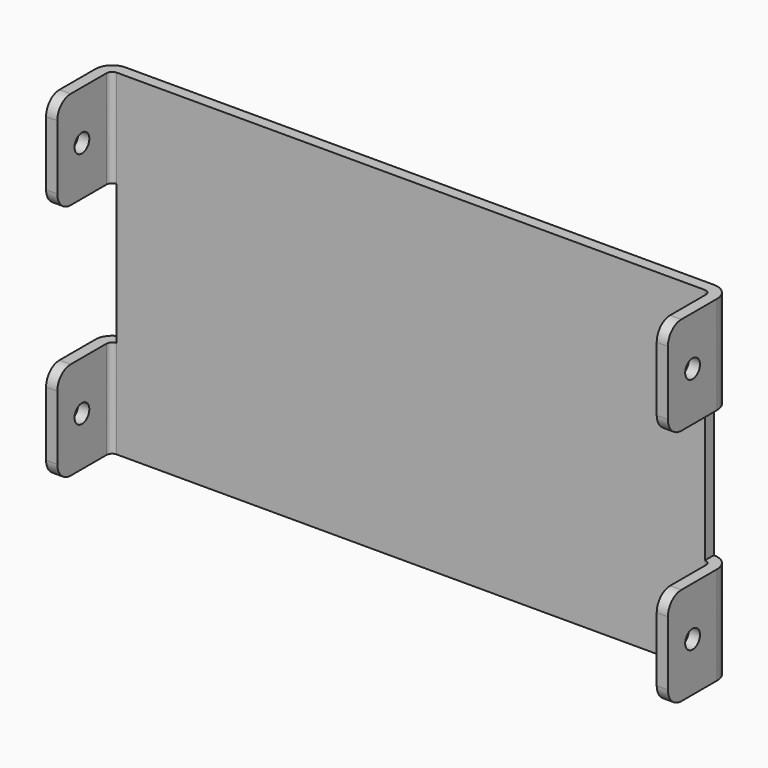
from build123d import *

# Parameters (mm, degrees)
F1_DEPTH   = 30
F2_W       = 3
F2_H       = 25
F1_FACE1_W = 105
F1_FACE1_H = 60
F3_DEPTH   = 14.001
F5_D       = 3.3
F6_R       = 3


with BuildPart() as f1:
    # F0 (on Top) → F1 (new body, symmetric)
    with BuildSketch(Plane.XY):
        with BuildLine():
            Line((-52.5, 0), (52.5, 0))
            ThreePointArc((52.5, 0), (53.2071067812, -0.2928932188), (53.5, -1))
            Line((53.5, -1), (53.5, -12))
            Line((53.5, -12), (55.5, -12))
            Line((55.5, -12), (55.5, -1))
            ThreePointArc((55.5, -1), (54.6213203436, 1.1213203436), (52.5, 2))
            Line((52.5, 2), (-52.5, 2))
            ThreePointArc((-52.5, 2), (-54.6213203436, 1.1213203436), (-55.5, -1))
            Line((-55.5, -1), (-55.5, -12))
            Line((-55.5, -12), (-53.5, -12))
            Line((-53.5, -12), (-53.5, -1))
            ThreePointArc((-53.5, -1), (-53.2071067812, -0.2928932188), (-52.5, 0))
        make_face()
    extrude(amount=F1_DEPTH, both=True)

    # F2 (on face) + F1_face1 (on face) → F3 (cut, through all)
    with BuildSketch(Plane(origin=(0, 2, 0), x_dir=(-1, 0, 0), z_dir=(0, 1, 0))):
        with Locations((-54, 0)):
            Rectangle(F2_W, F2_H)
        with Locations((54, 0)):
            Rectangle(F2_W, F2_H)
    with BuildSketch(Plane.XZ):
        Rectangle(F1_FACE1_W, F1_FACE1_H)
    extrude(amount=-F3_DEPTH, dir=(0, 1, 0), mode=Mode.SUBTRACT)

    # F5 (through all)
    with Locations(Plane.YZ.offset(55.5)):
        with Locations((-6.5, 21.25), (-6.5, -21.25)):
            Hole(F5_D / 2)

    # F6
    f6_edges = [f1.edges().sort_by_distance(p)[0] for p in [
        (-54.5, -12, 30),
        (-54.5, -12, 12.5),
        (-54.5, -12, -12.5),
        (-54.5, -12, -30),
        (54.5, -12, 30),
        (54.5, -12, 12.5),
        (54.5, -12, -12.5),
        (54.5, -12, -30),
    ]]
    fillet(f6_edges, radius=F6_R)


solid = f1.part
